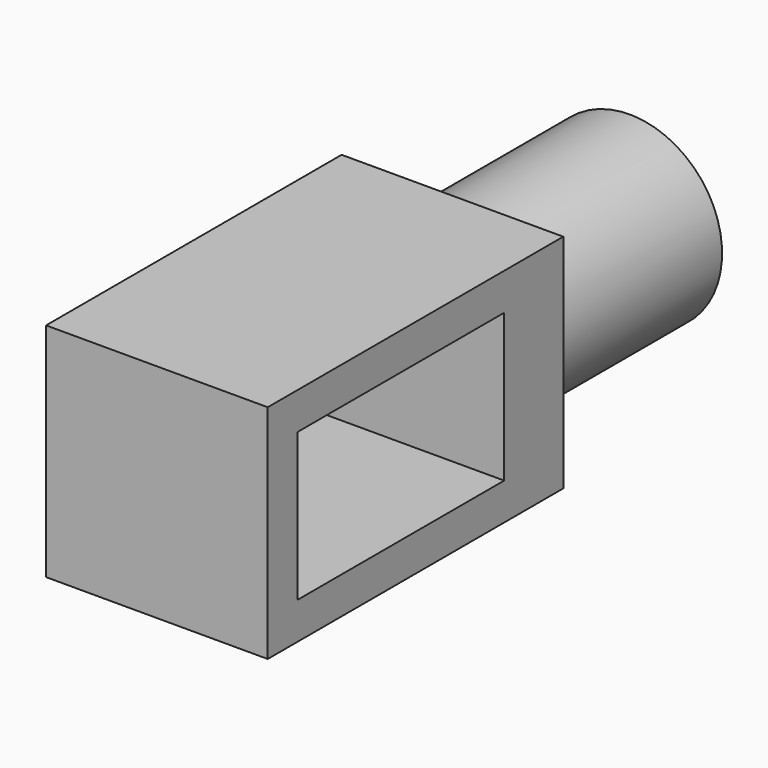
from build123d import *

# Parameters (mm, degrees)
F0_W     = 127
F0_H     = 76.2
F1_DEPTH = 76.2
F2_R     = 31.75
F3_DEPTH = 76.2
F4_W     = 88.9
F4_H     = 50.8
F5_DEPTH = 76.201


with BuildPart() as f1:
    # F0 (on Right) → F1 (new body)
    with BuildSketch(Plane.YZ):
        Rectangle(F0_W, F0_H)
    extrude(amount=F1_DEPTH)

    # F2 (on face) → F3 (join)
    with BuildSketch(Plane(origin=(0, 63.5, 0), x_dir=(-1, 0, 0), z_dir=(0, 1, 0))):
        with Locations((-38.1, 0)):
            Circle(F2_R)
    extrude(amount=F3_DEPTH)

    # F4 (on face) → F5 (cut, through all)
    with BuildSketch(Plane(origin=(0, 0, 0), x_dir=(0, -1, 0), z_dir=(-1, 0, 0))):
        with Locations((6.35, 0)):
            Rectangle(F4_W, F4_H)
    extrude(amount=-F5_DEPTH, mode=Mode.SUBTRACT)


solid = f1.part
